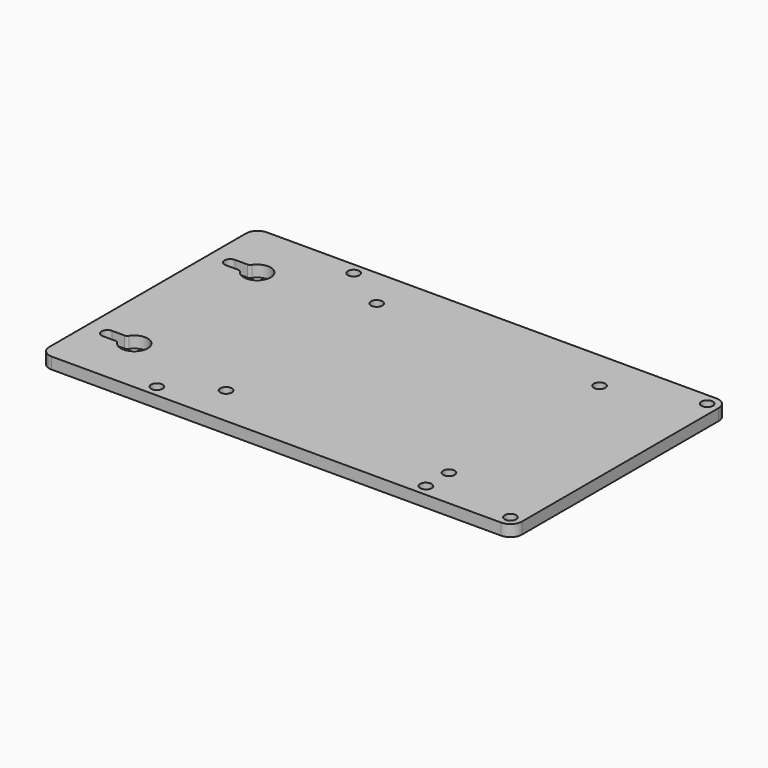
from build123d import *

# Parameters (mm, degrees)
F0_R     = 1.5
F1_DEPTH = 3


with BuildPart() as f1:
    # F0 (on Top) → F1 (new body)
    with BuildSketch(Plane.XY):
        with BuildLine():
            Line((0, 0), (3, 0))
            Line((3, 0), (95, 0))
            ThreePointArc((95, 0), (97.12132, 0.87868), (98, 3))
            Line((98, 3), (98, 67))
            ThreePointArc((98, 67), (97.12132, 69.12132), (95, 70))
            Line((95, 70), (3, 70))
            Line((3, 70), (0, 70))
            Line((0, 70), (-22, 70))
            ThreePointArc((-22, 70), (-24.12132, 69.12132), (-25, 67))
            Line((-25, 67), (-25, 3))
            ThreePointArc((-25, 3), (-24.12132, 0.87868), (-22, 0))
            Line((-22, 0), (0, 0))
        make_face()
        with Locations((3, 3)):
            Circle(F0_R, mode=Mode.SUBTRACT)
        with BuildLine():
            ThreePointArc((-15.410178, 16.944444), (-9, 15), (-15.410178, 13.055556))
            ThreePointArc((-15.410178, 13.055556), (-15.770253, 13.381917), (-16.241657, 13.5))
            Line((-16.241657, 13.5), (-19.5, 13.5))
            ThreePointArc((-19.5, 13.5), (-21, 15), (-19.5, 16.5))
            Line((-19.5, 16.5), (-16.241657, 16.5))
            ThreePointArc((-16.241657, 16.5), (-15.770253, 16.618083), (-15.410178, 16.944444))
        make_face(mode=Mode.SUBTRACT)
        with Locations((15, 10.5)):
            Circle(F0_R, mode=Mode.SUBTRACT)
        with Locations((73, 3)):
            Circle(F0_R, mode=Mode.SUBTRACT)
        with Locations((95, 3)):
            Circle(F0_R, mode=Mode.SUBTRACT)
        with Locations((73, 10.5)):
            Circle(F0_R, mode=Mode.SUBTRACT)
        with BuildLine():
            ThreePointArc((-16.241657, 56.5), (-15.770253, 56.618083), (-15.410178, 56.944444))
            ThreePointArc((-15.410178, 56.944444), (-9, 55), (-15.410178, 53.055556))
            ThreePointArc((-15.410178, 53.055556), (-15.770253, 53.381917), (-16.241657, 53.5))
            Line((-16.241657, 53.5), (-19.5, 53.5))
            ThreePointArc((-19.5, 53.5), (-21, 55), (-19.5, 56.5))
            Line((-19.5, 56.5), (-16.241657, 56.5))
        make_face(mode=Mode.SUBTRACT)
        with Locations((3, 67)):
            Circle(F0_R, mode=Mode.SUBTRACT)
        with Locations((15, 59.5)):
            Circle(F0_R, mode=Mode.SUBTRACT)
        with Locations((73, 59.5)):
            Circle(F0_R, mode=Mode.SUBTRACT)
        with Locations((95, 67)):
            Circle(F0_R, mode=Mode.SUBTRACT)
    extrude(amount=F1_DEPTH)


solid = f1.part
